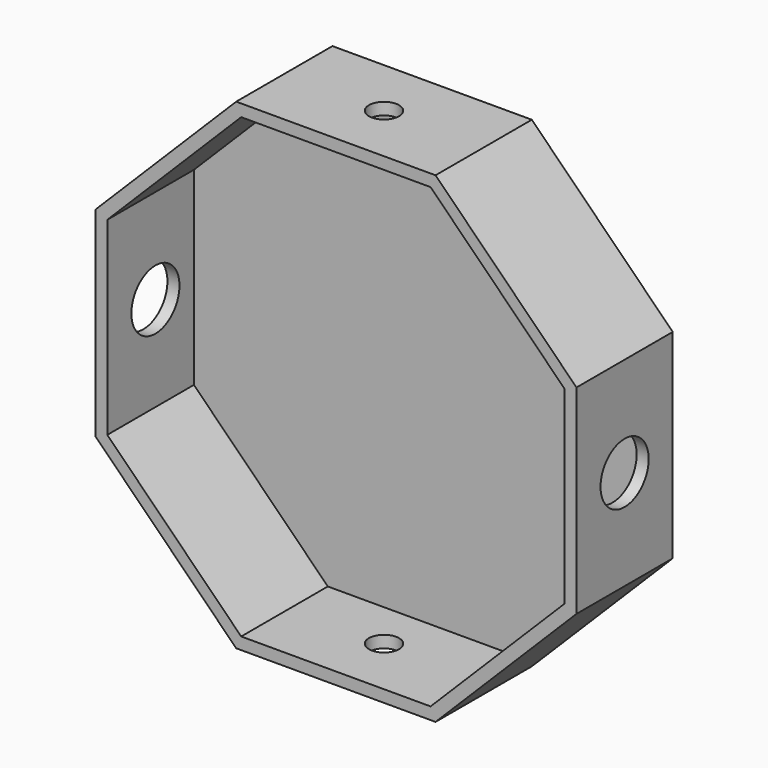
from build123d import *

# Parameters (mm, degrees)
F1_DEPTH = 25.4
F2_T     = -2.54
F4_D     = 6.35
F6_D     = 12.7


with BuildPart() as f1:
    # F0 (on Front) → F1 (new body)
    with BuildSketch(Plane.XZ):
        Polygon((50.8, -21.042049), (50.8, 21.042049), (21.042049, 50.8), (-21.042049, 50.8), (-21.042049, -50.8), (0, -50.8), (21.042049, -50.8), align=None)
        Polygon((-21.042049, -50.8), (-21.042049, 50.8), (-50.8, 21.042049), (-50.8, -21.042049), align=None)
    extrude(amount=F1_DEPTH)

    # F2
    f2_openings = [f1.faces().sort_by_distance(p)[0] for p in [
        (0, -25.4, 0),
    ]]
    offset(amount=F2_T, openings=f2_openings)

    # F4 (through all)
    with Locations(Plane(origin=(0, 0, -50.8), x_dir=(1, 0, 0), z_dir=(0, 0, -1))):
        with Locations((0, 12.7)):
            Hole(F4_D / 2)

    # F6 (through all)
    with Locations(Plane.YZ.offset(50.8)):
        with Locations((-12.7, 0)):
            Hole(F6_D / 2)


solid = f1.part
